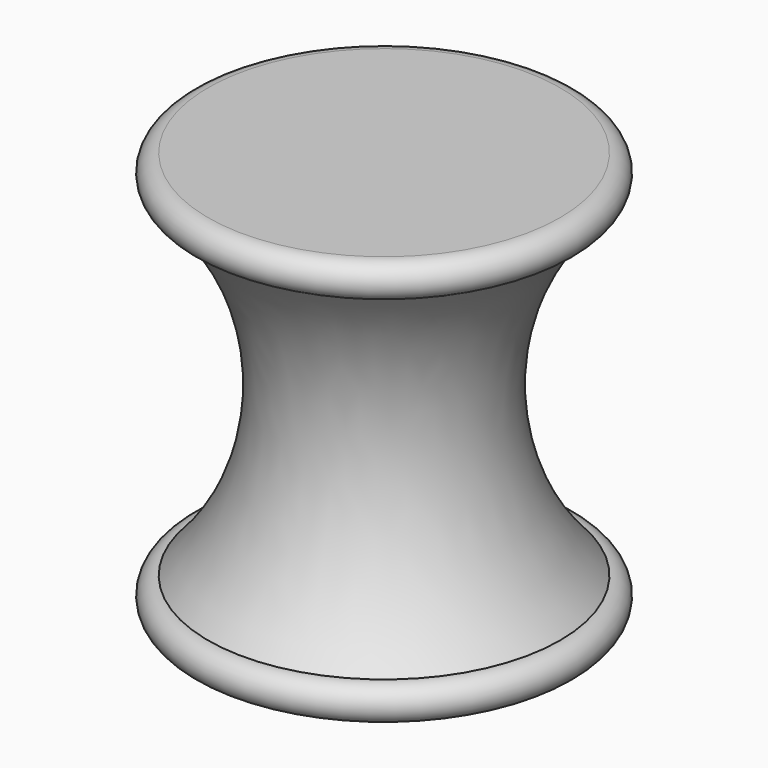
from build123d import *


with BuildPart() as f1:
    # F0 (on Front) → F1 (revolve)
    with BuildSketch(Plane.XZ):
        with BuildLine():
            Line((0, 21.543375), (0, 0))
            Line((0, 0), (1.5875, 0))
            Line((1.5875, 0), (1.5875, 3.175))
            Line((1.5875, 3.175), (7.9375, 3.175))
            ThreePointArc((7.9375, 3.175), (8.73125, 3.96875), (7.9375, 4.7625))
            ThreePointArc((7.9375, 4.7625), (4.963216, 12.359188), (7.9375, 19.955875))
            ThreePointArc((7.9375, 19.955875), (8.73125, 20.749625), (7.9375, 21.543375))
            Line((7.9375, 21.543375), (0, 21.543375))
        make_face()
    revolve(axis=Axis((0, 0, 10.771688), (0, 0, -1)))


solid = f1.part
